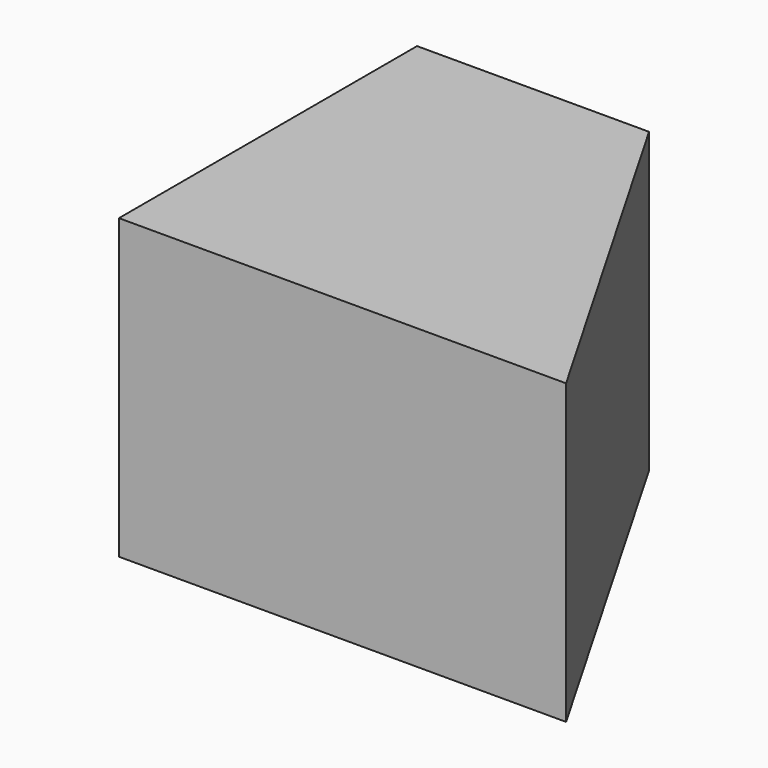
from build123d import *

# Parameters (mm, degrees)
PAD_DEPTH = 40


with BuildPart() as part:
    # Sketch → Pad (new body)
    with BuildSketch(Plane.XY):
        Polygon((8, 58), (39.132487, 58), (68, 8), (8, 8), align=None)
    extrude(amount=PAD_DEPTH)


solid = part.part
